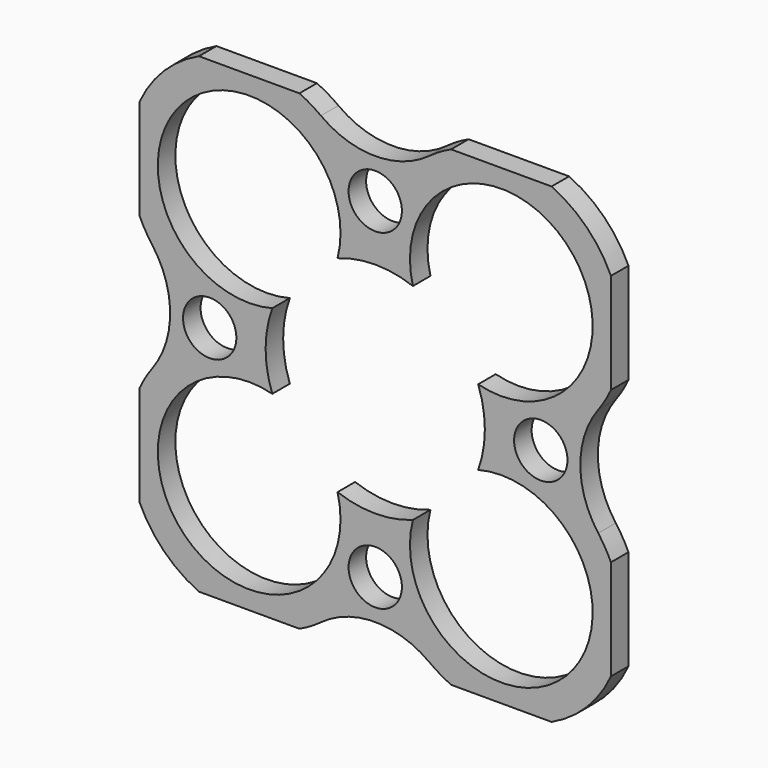
from build123d import *

# Parameters (mm, degrees)
F0_R     = 3.65
F1_DEPTH = 3


with BuildPart() as f1:
    # F0 (on Front) → F1 (new body)
    with BuildSketch(Plane.XZ):
        with BuildLine():
            ThreePointArc((7.435345, 30.51358), (0, 28.061746), (-7.435345, 30.51358))
            ThreePointArc((-7.435345, 30.51358), (-8.860694, 31.45808), (-10.376136, 32.25))
            Line((-10.376136, 32.25), (-24.123864, 32.25))
            ThreePointArc((-24.123864, 32.25), (-28.917262, 28.917262), (-32.25, 24.123864))
            Line((-32.25, 24.123864), (-32.25, 10.376136))
            ThreePointArc((-32.25, 10.376136), (-31.45808, 8.860694), (-30.51358, 7.435345))
            ThreePointArc((-30.51358, 7.435345), (-28.061746, 0), (-30.51358, -7.435345))
            ThreePointArc((-30.51358, -7.435345), (-31.45808, -8.860694), (-32.25, -10.376136))
            Line((-32.25, -10.376136), (-32.25, -24.123864))
            ThreePointArc((-32.25, -24.123864), (-28.917262, -28.917262), (-24.123864, -32.25))
            Line((-24.123864, -32.25), (-10.376136, -32.25))
            ThreePointArc((-10.376136, -32.25), (-8.860694, -31.45808), (-7.435345, -30.51358))
            ThreePointArc((-7.435345, -30.51358), (0, -28.061746), (7.435345, -30.51358))
            ThreePointArc((7.435345, -30.51358), (8.860694, -31.45808), (10.376136, -32.25))
            Line((10.376136, -32.25), (24.123864, -32.25))
            ThreePointArc((24.123864, -32.25), (28.917262, -28.917262), (32.25, -24.123864))
            Line((32.25, -24.123864), (32.25, -10.376136))
            ThreePointArc((32.25, -10.376136), (31.45808, -8.860694), (30.51358, -7.435345))
            ThreePointArc((30.51358, -7.435345), (28.061746, 0), (30.51358, 7.435345))
            ThreePointArc((30.51358, 7.435345), (31.45808, 8.860694), (32.25, 10.376136))
            Line((32.25, 10.376136), (32.25, 24.123864))
            ThreePointArc((32.25, 24.123864), (28.917262, 28.917262), (24.123864, 32.25))
            Line((24.123864, 32.25), (10.376136, 32.25))
            ThreePointArc((10.376136, 32.25), (8.860694, 31.45808), (7.435345, 30.51358))
        make_face()
        with Locations((0, -22.65)):
            Circle(F0_R, mode=Mode.SUBTRACT)
        with Locations((-22.65, 0)):
            Circle(F0_R, mode=Mode.SUBTRACT)
        with BuildLine():
            ThreePointArc((-5.157174, 14.08558), (0, 15), (5.157174, 14.08558))
            ThreePointArc((5.157174, 14.08558), (26.088835, 26.088835), (14.08558, 5.157174))
            ThreePointArc((14.08558, 5.157174), (15, 0), (14.08558, -5.157174))
            ThreePointArc((14.08558, -5.157174), (26.088835, -26.088835), (5.157174, -14.08558))
            ThreePointArc((5.157174, -14.08558), (0, -15), (-5.157174, -14.08558))
            ThreePointArc((-5.157174, -14.08558), (-26.088835, -26.088835), (-14.08558, -5.157174))
            ThreePointArc((-14.08558, -5.157174), (-15, 0), (-14.08558, 5.157174))
            ThreePointArc((-14.08558, 5.157174), (-26.088835, 26.088835), (-5.157174, 14.08558))
        make_face(mode=Mode.SUBTRACT)
        with Locations((22.65, 0)):
            Circle(F0_R, mode=Mode.SUBTRACT)
        with Locations((0, 22.65)):
            Circle(F0_R, mode=Mode.SUBTRACT)
    extrude(amount=F1_DEPTH)


solid = f1.part
